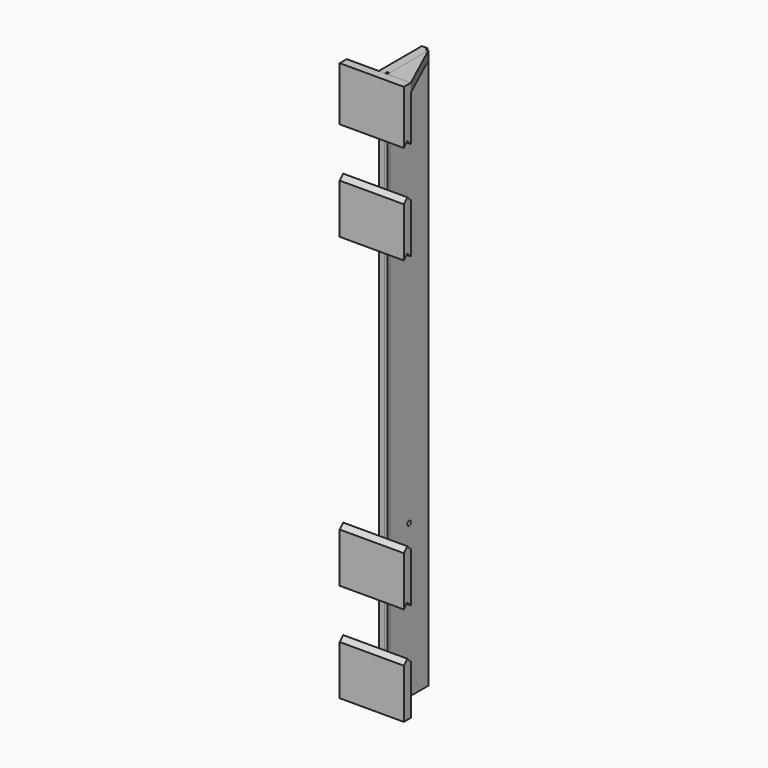
from build123d import *

# Parameters (mm, degrees)
F0_W          = 234.95
F0_H          = 2438.4
F0_R          = 9.525
F1_DEPTH      = 38.1
F3_DEPTH      = 177.8
F3_DEPTH_BACK = 101.6
F4_W          = 12.7
F4_H          = 12.7
F5_DEPTH      = 2438.401
F7_DEPTH      = 38.1
F8_W          = 12.7
F8_H          = 12.7
F8_W_2        = 9.398
F8_H_2        = 9.398
F9_DEPTH      = 2438.4
F10_R         = 25.4
F11_DEPTH     = 9.525


with BuildPart() as f1:
    # F0 (on Right) → F1 (new body)
    with BuildSketch(Plane.YZ):
        with Locations((117.475, 1219.2)):
            Rectangle(F0_W, F0_H)
        with Locations((117.475, 50.8)):
            Circle(F0_R, mode=Mode.SUBTRACT)
        with Locations((117.475, 666.75)):
            Circle(F0_R, mode=Mode.SUBTRACT)
        with Locations((117.475, 1771.65)):
            Circle(F0_R, mode=Mode.SUBTRACT)
    extrude(amount=F1_DEPTH)

    # F4 (on face) → F5 (cut, through all)
    with BuildSketch(Plane.XY.offset(2438.4)):
        with Locations((31.75, 228.6)):
            Rectangle(F4_W, F4_H)
        with Locations((31.75, 6.35)):
            Rectangle(F4_W, F4_H)
    extrude(amount=-F5_DEPTH, mode=Mode.SUBTRACT)

    # F10 (on face) → F11 (cut)
    with BuildSketch(Plane(origin=(0, 0, 0), x_dir=(0, -1, 0), z_dir=(-1, 0, 0))):
        with Locations((-117.475, 1771.65)):
            Circle(F10_R)
        with Locations((-117.475, 666.75)):
            Circle(F10_R)
    extrude(amount=-F11_DEPTH, mode=Mode.SUBTRACT)


with BuildPart() as f3:
    # F2 (on face) → F3 (new body, two sides)
    with BuildSketch(Plane.YZ.offset(38.1)) as f3_sk:
        Polygon((-38.1, 215.9), (-38.1, 0), (0, 0), (0, 215.9), (-19.05, 234.95), align=None)
    extrude(amount=-F3_DEPTH)
    extrude(f3_sk.sketch, amount=F3_DEPTH_BACK)


with BuildPart() as f3b:
    # F2 (on face) → F3, piece 2 (new body, two sides)
    with BuildSketch(Plane.YZ.offset(38.1)) as f3_2_sk:
        Polygon((-19.05, 450.85), (0, 431.8), (0, 647.7), (-19.05, 666.75), (-38.1, 647.7), (-38.1, 431.8), align=None)
    extrude(amount=-F3_DEPTH)
    extrude(f3_2_sk.sketch, amount=F3_DEPTH_BACK)


with BuildPart() as f3c:
    # F2 (on face) → F3, piece 3 (new body, two sides)
    with BuildSketch(Plane.YZ.offset(38.1)) as f3_3_sk:
        Polygon((0, 2203.45), (0, 2438.4), (-38.1, 2438.4), (-38.1, 2203.45), (-19.05, 2222.5), align=None)
    extrude(amount=-F3_DEPTH)
    extrude(f3_3_sk.sketch, amount=F3_DEPTH_BACK)


with BuildPart() as f3d:
    # F2 (on face) → F3, piece 4 (new body, two sides)
    with BuildSketch(Plane.YZ.offset(38.1)) as f3_4_sk:
        Polygon((0, 1771.65), (0, 1987.55), (-19.05, 2006.6), (-38.1, 1987.55), (-38.1, 1771.65), (-19.05, 1790.7), align=None)
    extrude(amount=-F3_DEPTH)
    extrude(f3_4_sk.sketch, amount=F3_DEPTH_BACK)


with BuildPart() as f7:
    # F6 (on face) → F7 (new body)
    with BuildSketch(Plane.XY.offset(2438.4)):
        Polygon((139.7, 0), (38.1, 222.25), (38.1, 0), align=None)
    extrude(amount=-F7_DEPTH)


with BuildPart() as f9:
    # F8 (on face) → F9 (new body)
    with BuildSketch(Plane.XY.offset(2438.4)):
        with Locations((31.75, 6.35)):
            Rectangle(F8_W, F8_H)
        with Locations((31.75, 6.35)):
            Rectangle(F8_W_2, F8_H_2, mode=Mode.SUBTRACT)
    extrude(amount=-F9_DEPTH)


solid = Compound([f1.part, f3.part, f3b.part, f3c.part, f3d.part, f7.part, f9.part])
